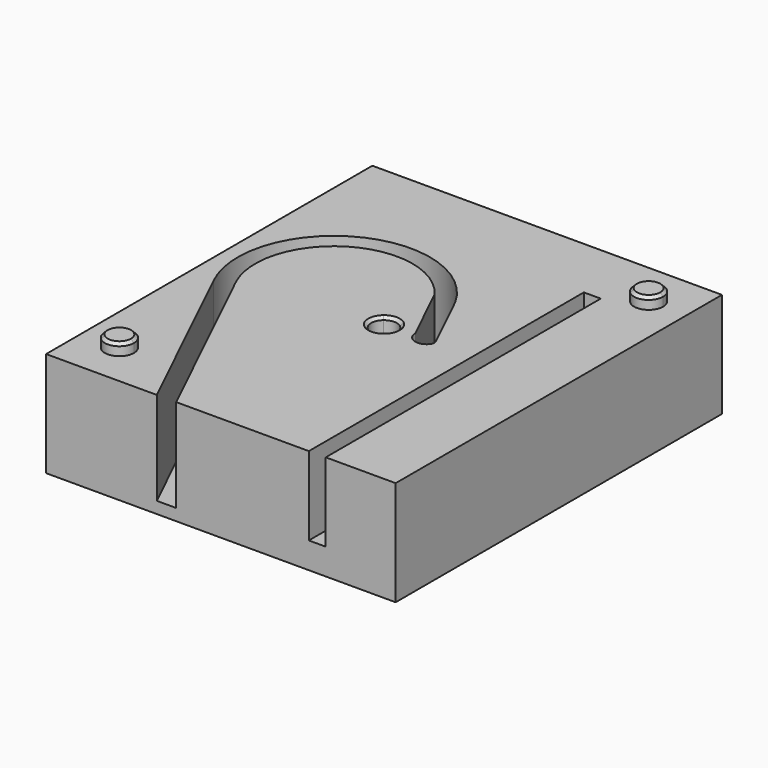
from build123d import *

# Parameters (mm, degrees)
F0_W      = 60
F0_H      = 70
F1_DEPTH  = 18
F2_W      = 2.9
F2_H      = 59
F3_DEPTH  = 13.5
F5_DEPTH  = 16
F7_DEPTH  = 25
F9_DEPTH  = 2
F10_SIZE  = 0.5
F11_R     = 3.45
F11_R_2   = 2.2
F12_DEPTH = 12


with BuildPart() as f1:
    # F0 (on Top) → F1 (new body)
    with BuildSketch(Plane.XY):
        with Locations((30, -35)):
            Rectangle(F0_W, F0_H)
    extrude(amount=F1_DEPTH)

    # F2 (on face) → F3 (cut)
    with BuildSketch(Plane.XY.offset(18)):
        with Locations((46.55, -40.5)):
            Rectangle(F2_W, F2_H)
    extrude(amount=-F3_DEPTH, mode=Mode.SUBTRACT)

    # F4 (on face) → F5 (cut)
    with BuildSketch(Plane.XY.offset(18)):
        with BuildLine():
            Line((4.2371301342, -39.3729269219), (19, -70))
            Line((19, -70), (22.3303290856, -70))
            Line((22.3303290856, -70), (6.8526019079, -37.8898828165))
            ThreePointArc((6.8526019079, -37.8898828165), (12.0206674289, -20.4440960171), (29.8669683324, -23.9900687105))
            Line((29.8669683324, -23.9900687105), (34.880068317, -34.3902538353))
            ThreePointArc((34.880068317, -34.3902538353), (36.2161853291, -36.2452623083), (38.4023255148, -35.5766396993))
            ThreePointArc((38.4023255148, -35.5766396993), (38.6024725197, -35.0710240917), (38.5084373031, -34.5354278406))
            Line((38.5084373031, -34.5354278406), (33.425360506, -23.9900687105))
            ThreePointArc((33.425360506, -23.9900687105), (11.3060254135, -17.4027565566), (4.2371301342, -39.3729269219))
        make_face()
    extrude(amount=-F5_DEPTH, mode=Mode.SUBTRACT)

    # F6 (on face) → F7 (cut)
    with BuildSketch(Plane.XY.offset(18)):
        with BuildLine():
            ThreePointArc((28.5682589784, -33.3296354748), (27.8, -35), (28.5682589784, -36.6703645252))
            ThreePointArc((28.5682589784, -36.6703645252), (30, -37.2), (31.4317410216, -36.6703645252))
            ThreePointArc((31.4317410216, -36.6703645252), (31.9987283767, -35.919284981), (32.2, -35))
            ThreePointArc((32.2, -35), (31.9987283767, -34.080715019), (31.4317410216, -33.3296354748))
            ThreePointArc((31.4317410216, -33.3296354748), (30, -32.8), (28.5682589784, -33.3296354748))
        make_face()
    extrude(amount=-F7_DEPTH, mode=Mode.SUBTRACT)

    # F8 (on face) → F9 (join)
    with BuildSketch(Plane.XY.offset(18)):
        with BuildLine():
            ThreePointArc((8.1348921682, -60.5092924704), (4.6097722286, -60.7804555427), (4.8809353009, -64.3055754823))
            Line((4.8809353009, -64.3055754823), (6.5079137346, -62.4074339763))
            Line((6.5079137346, -62.4074339763), (8.1348921682, -60.5092924704))
        make_face()
        with BuildLine():
            ThreePointArc((55.9920862654, -7.5925660237), (55.7633685117, -6.5479239998), (55.1190646991, -5.6944245177))
            Line((55.1190646991, -5.6944245177), (53.4920862654, -7.5925660237))
            Line((53.4920862654, -7.5925660237), (51.8651078318, -9.4907075296))
            ThreePointArc((51.8651078318, -9.4907075296), (54.5367282893, -9.8638482699), (55.9920862654, -7.5925660237))
        make_face()
        with BuildLine():
            Line((6.5079137346, -62.4074339763), (4.8809353009, -64.3055754823))
            ThreePointArc((4.8809353009, -64.3055754823), (7.5525557584, -64.6787162226), (9.0079137346, -62.4074339763))
            ThreePointArc((9.0079137346, -62.4074339763), (8.7791959808, -61.3627919525), (8.1348921682, -60.5092924704))
            Line((8.1348921682, -60.5092924704), (6.5079137346, -62.4074339763))
        make_face()
        with BuildLine():
            Line((53.4920862654, -7.5925660237), (55.1190646991, -5.6944245177))
            ThreePointArc((55.1190646991, -5.6944245177), (51.5939447595, -5.96558759), (51.8651078318, -9.4907075296))
            Line((51.8651078318, -9.4907075296), (53.4920862654, -7.5925660237))
        make_face()
    extrude(amount=F9_DEPTH)

    # F10
    f10_edges = [f1.edges().sort_by_distance(p)[0] for p in [
        (8.134892, -60.509292, 20),
        (51.865108, -9.490708, 20),
        (27.8, -35, 18),
    ]]
    chamfer(f10_edges, length=F10_SIZE)

    # F11 (on face) → F12 (cut)
    with BuildSketch(Plane(origin=(0, 0, 0), x_dir=(1, 0, 0), z_dir=(0, 0, -1))):
        with Locations((30, 35)):
            Circle(F11_R)
        with Locations((30, 35)):
            Circle(F11_R_2, mode=Mode.SUBTRACT)
        with Locations((30, 35)):
            Circle(F11_R)
        with Locations((30, 35)):
            Circle(F11_R_2, mode=Mode.SUBTRACT)
    extrude(amount=-F12_DEPTH, mode=Mode.SUBTRACT)


solid = f1.part
